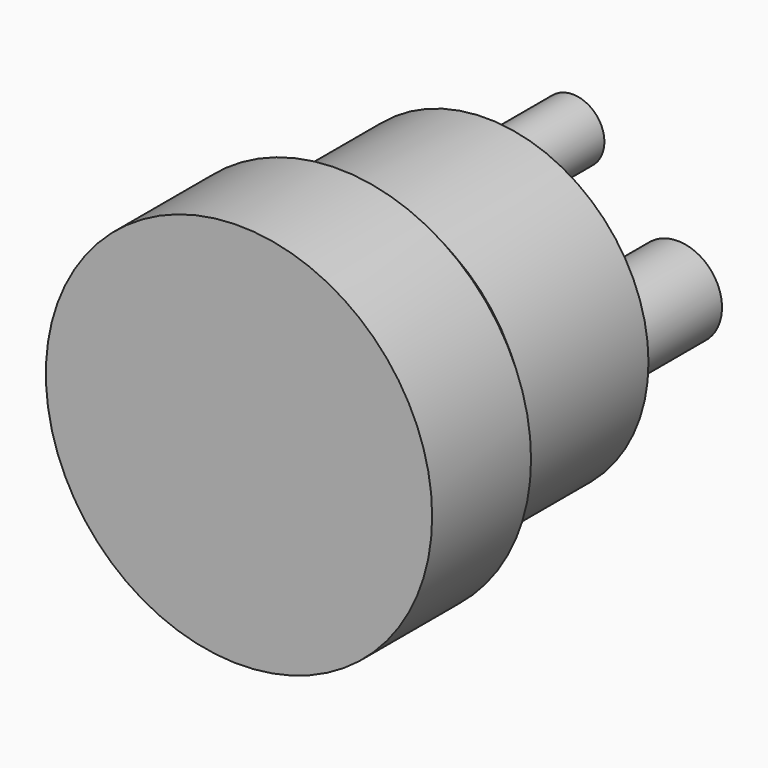
from build123d import *

# Parameters (mm, degrees)
F0_R     = 31.75
F1_DEPTH = 25.4
F3_SIZE  = 5.08
F4_R     = 26.67
F5_DEPTH = 25.4
F6_R     = 5.19146
F6_R_2   = 7.272236
F6_R_3   = 6.757556
F6_R_4   = 4.56385
F7_DEPTH = 17.78


with BuildPart() as f1:
    # F0 (on Front) → F1 (new body)
    with BuildSketch(Plane.XZ):
        Circle(F0_R)
    extrude(amount=F1_DEPTH)

    # F3
    f3_edges = [f1.edges().sort_by_distance(p)[0] for p in [
        (-31.75, 0, 0),
    ]]
    chamfer(f3_edges, length=F3_SIZE)

    # F4 (on face) → F5 (join)
    with BuildSketch(Plane(origin=(0, 0, 0), x_dir=(-1, 0, 0), z_dir=(0, 1, 0))):
        Circle(F4_R)
    extrude(amount=F5_DEPTH)

    # F6 (on face) → F7 (join)
    with BuildSketch(Plane(origin=(0, 25.4, 0), x_dir=(-1, 0, 0), z_dir=(0, 1, 0))):
        with Locations((0, 17.68492)):
            Circle(F6_R)
        with Locations((-17.257057, 0)):
            Circle(F6_R_2)
        with Locations((0, -18.255401)):
            Circle(F6_R_3)
        with Locations((16.971817, 0)):
            Circle(F6_R_4)
    extrude(amount=F7_DEPTH)


solid = f1.part
